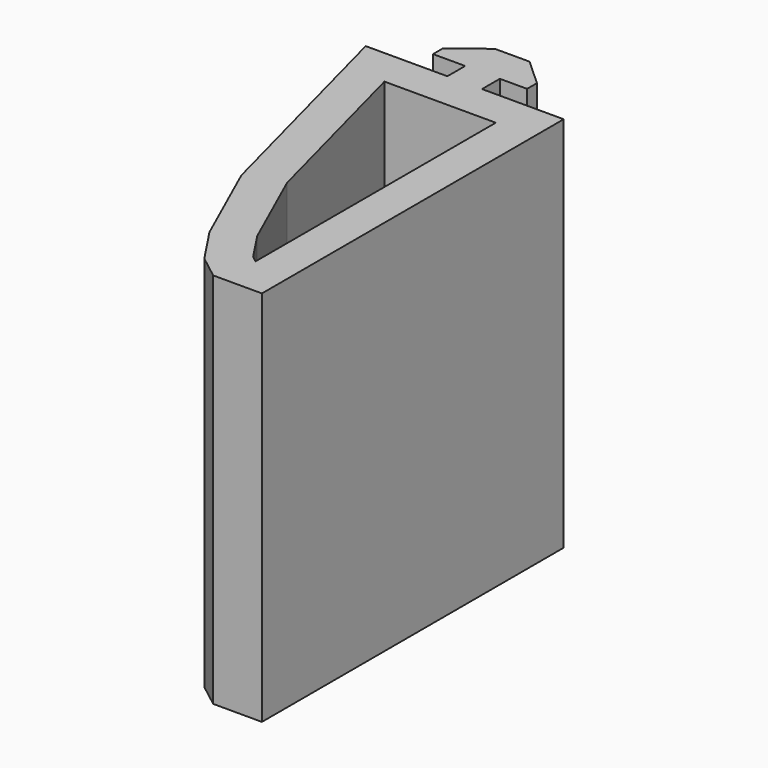
from build123d import *

# Parameters (mm, degrees)
F1_DEPTH = 38.1
F2_SIZE  = 5.08
F3_SIZE  = 5.08
F4_SIZE  = 5.08
F5_T     = -3.81
F6_DEPTH = 25.4
F0_W     = 3.5
F0_H     = 2.25
F7_DEPTH = 38.1


with BuildPart() as f1:
    # F0 (on Top) → F1 (new body)
    with BuildSketch(Plane.XY):
        Polygon((52.1997908056, -19.3742188337), (48.6997908056, -19.3742188337), (40.4497908056, -19.3742188337), (50.4497908056, -57.4742188337), (60.4497908056, -57.4742188337), (60.4497908056, -19.3742188337), align=None)
    extrude(amount=-F1_DEPTH)

    # F2
    f2_edges = [f1.edges().sort_by_distance(p)[0] for p in [
        (50.449791, -57.474219, -19.05),
    ]]
    chamfer(f2_edges, length=F2_SIZE)

    # F3
    f3_edges = [f1.edges().sort_by_distance(p)[0] for p in [
        (49.160139, -52.560646, -19.05),
    ]]
    chamfer(f3_edges, length=F3_SIZE)

    # F4
    f4_edges = [f1.edges().sort_by_distance(p)[0] for p in [
        (47.870487, -47.647073, -19.05),
    ]]
    chamfer(f4_edges, length=F4_SIZE)

    # F5
    f5_openings = [f1.faces().sort_by_distance(p)[0] for p in [
        (52.764065, -35.551883, -38.1),
    ]]
    offset(amount=F5_T, openings=f5_openings)

    # F6 (cut): a face of the model
    f6_faces = [f1.faces().sort_by_distance(p)[0] for p in [
        (52.597107383, -34.5596646163, -3.81),
    ]]
    extrude(f6_faces, amount=-F6_DEPTH, mode=Mode.SUBTRACT)

    # F0 (on Top) → F7 (join)
    with BuildSketch(Plane.XY):
        with Locations((50.4497908056, -18.2492188337)):
            Rectangle(F0_W, F0_H)
        Polygon((45.4497908056, -17.1242188337), (48.6997908056, -17.1242188337), (52.1997908056, -17.1242188337), (54.9497908056, -17.1242188337), (54.9497908056, -15.8742188337), (45.4497908056, -15.8742188337), align=None)
        Polygon((48.6997908056, -13.3742188337), (45.4497908056, -15.8742188337), (54.9497908056, -15.8742188337), (52.1997908056, -13.3742188337), align=None)
    extrude(amount=-F7_DEPTH)


solid = f1.part
